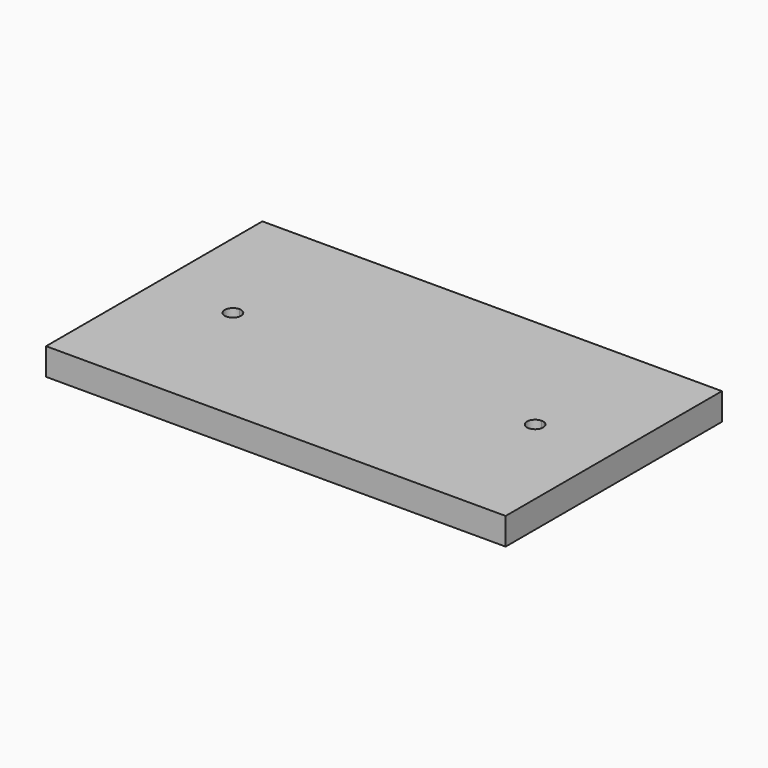
from build123d import *

# Parameters (mm, degrees)
F0_W     = 107.95
F0_H     = 63.5
F1_DEPTH = 6.35


with BuildPart() as f1:
    # F0 (on Top) → F1 (new body)
    with BuildSketch(Plane.XY):
        Rectangle(F0_W, F0_H)
        with BuildLine():
            Line((-35.4965, 18.534034), (35.4965, 18.534034))
            Line((35.4965, 18.534034), (35.4965, 1.905))
            ThreePointArc((35.4965, 1.905), (36.843538, 1.347038), (37.4015, 0))
            ThreePointArc((37.4015, 0), (36.843538, -1.347038), (35.4965, -1.905))
            Line((35.4965, -1.905), (35.4965, -18.534034))
            Line((35.4965, -18.534034), (-35.4965, -18.534034))
            Line((-35.4965, -18.534034), (-35.4965, -1.905))
            ThreePointArc((-35.4965, -1.905), (-37.4015, 0), (-35.4965, 1.905))
            Line((-35.4965, 1.905), (-35.4965, 18.534034))
        make_face(mode=Mode.SUBTRACT)
        with BuildLine():
            Line((35.4965, 1.905), (35.4965, 18.534034))
            Line((35.4965, 18.534034), (-35.4965, 18.534034))
            Line((-35.4965, 18.534034), (-35.4965, 1.905))
            ThreePointArc((-35.4965, 1.905), (-34.149462, 1.347038), (-33.5915, 0))
            ThreePointArc((-33.5915, 0), (-34.149462, -1.347038), (-35.4965, -1.905))
            Line((-35.4965, -1.905), (-35.4965, -18.534034))
            Line((-35.4965, -18.534034), (35.4965, -18.534034))
            Line((35.4965, -18.534034), (35.4965, -1.905))
            ThreePointArc((35.4965, -1.905), (33.5915, 0), (35.4965, 1.905))
        make_face()
    extrude(amount=F1_DEPTH)


solid = f1.part
